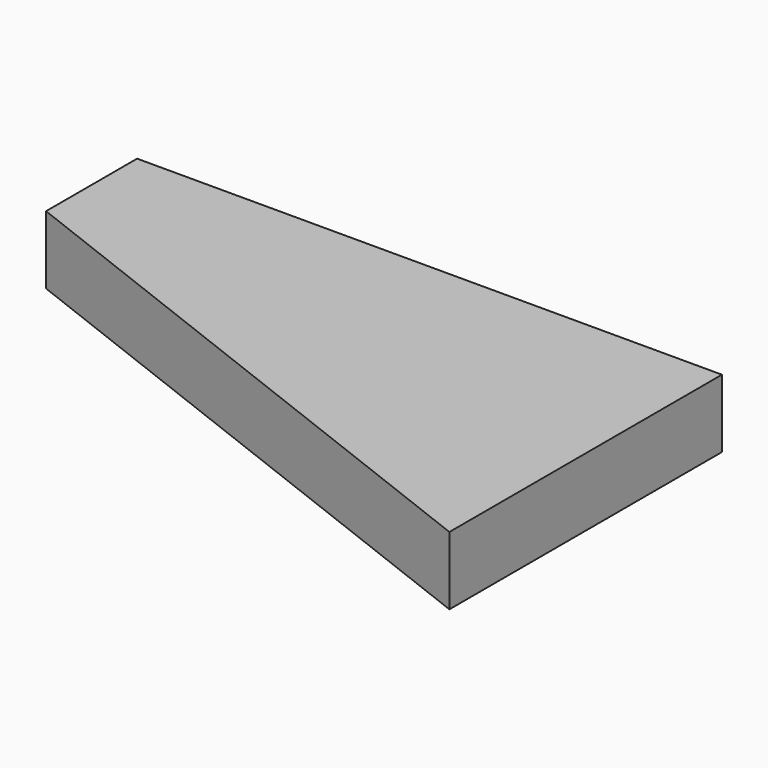
from build123d import *

# Parameters (mm, degrees)
F0_W     = 103
F0_H     = 12
F1_DEPTH = 60
F3_DEPTH = 12


with BuildPart() as f1:
    # F0 (on Front) → F1 (new body)
    with BuildSketch(Plane.XZ):
        with Locations((13.507583, -4.8697)):
            Rectangle(F0_W, F0_H)
    extrude(amount=F1_DEPTH)

    # F2 (on face) → F3 (cut)
    with BuildSketch(Plane.XY.offset(1.1303)):
        Polygon((65.007583, -60), (-37.992417, -20.035338), (-37.992417, -60), align=None)
    extrude(amount=-F3_DEPTH, mode=Mode.SUBTRACT)


solid = f1.part
